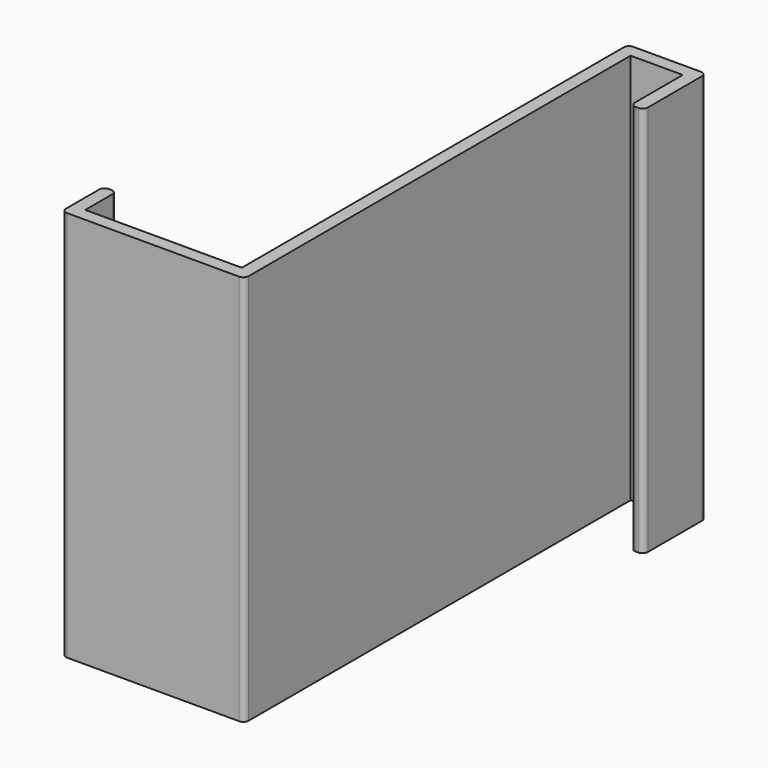
from build123d import *

# Parameters (mm, degrees)
F0_W     = 2.5
F0_H     = 6.25
F1_DEPTH = 75
F2_R     = 1
F3_R     = 1


with BuildPart() as f1:
    # F0 (on Top) → F1 (new body)
    with BuildSketch(Plane.XY):
        Polygon((2.5, 0), (0, 0), (0, -55.470833), (-15, -55.470833), (-15, -57.970833), (2.5, -57.970833), align=None)
        Polygon((7.5, 34.529167), (7.5, 37.029167), (0, 37.029167), (0, 0), (2.5, 0), (2.5, 34.529167), align=None)
        Polygon((12.5, 28.279167), (15, 28.279167), (15, 37.029167), (7.5, 37.029167), (7.5, 34.529167), (12.5, 34.529167), align=None)
        with Locations((13.75, 25.154167)):
            Rectangle(F0_W, F0_H)
        Polygon((-15, -57.970833), (-15, -55.470833), (-30, -55.470833), (-30, -47.970833), (-32.5, -47.970833), (-32.5, -57.970833), align=None)
    extrude(amount=F1_DEPTH)

    # F2
    f2_edges = [f1.edges().sort_by_distance(p)[0] for p in [
        (-32.5, -57.970833, 37.5),
        (2.5, -57.970833, 37.5),
        (15, 37.029167, 37.5),
        (0, 37.029167, 37.5),
    ]]
    fillet(f2_edges, radius=F2_R)

    # F3
    f3_edges = [f1.edges().sort_by_distance(p)[0] for p in [
        (-30, -47.970833, 37.5),
        (-32.5, -47.970833, 37.5),
        (15, 22.029167, 37.5),
        (12.5, 22.029167, 37.5),
    ]]
    fillet(f3_edges, radius=F3_R)


solid = f1.part
